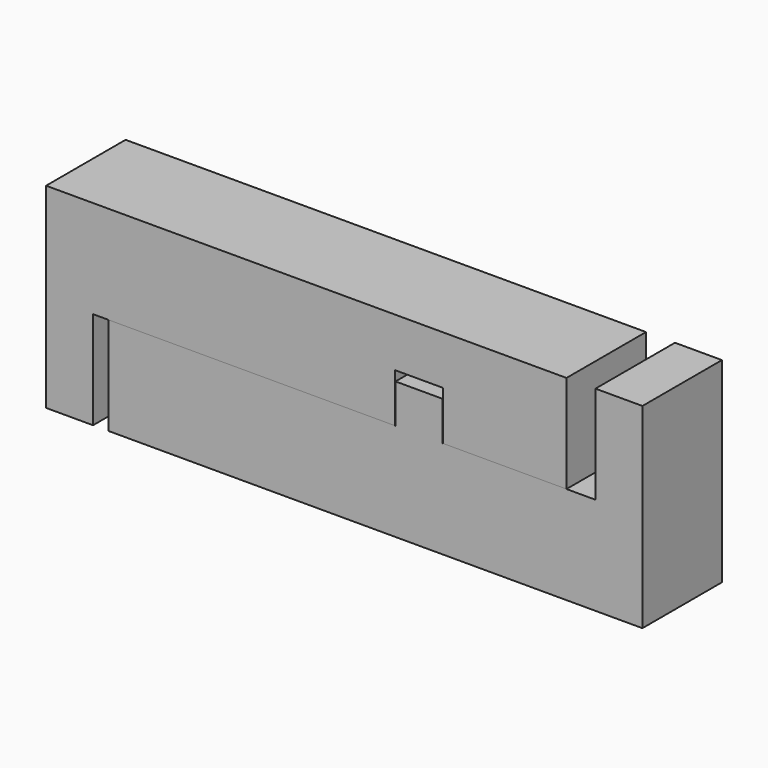
from build123d import *

# Parameters (mm, degrees)
F1_DEPTH = 25.4
F3_DEPTH = 25.4


with BuildPart() as f1:
    # F0 (on Front) → F1 (new body)
    with BuildSketch(Plane.XZ):
        Polygon((0, 50), (0, 0), (12, 0), (12, 25), (89.22, 25), (89.22, 37.5), (101.38, 37.5), (101.38, 25), (133, 25), (133, 50), align=None)
    extrude(amount=F1_DEPTH)


with BuildPart() as f3:
    # F2 (on Front) → F3 (new body)
    with BuildSketch(Plane.XZ):
        Polygon((15.9, 25), (15.9, 0), (152.4, 0), (152.4, 50), (140.4, 50), (140.4, 25), (101.3, 25), (101.3, 35), (89.3, 35), (89.3, 25), align=None)
    extrude(amount=F3_DEPTH)


solid = Compound([f1.part, f3.part])
